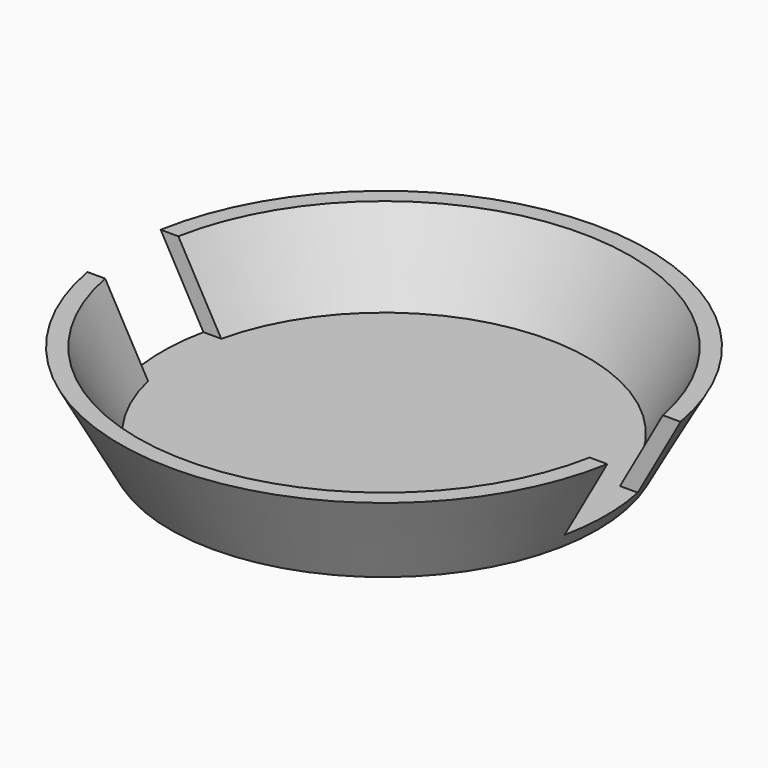
from build123d import *

# Parameters (mm, degrees)
F2_T     = -1
F4_DEPTH = 5.001


with BuildPart() as f1:
    # F0 (on Right) → F1 (revolve)
    with BuildSketch(Plane.YZ):
        Polygon((0, 6), (0, 0), (14, 0), (17.3028167337, 6), align=None)
    revolve(axis=Axis((0, 0, 3), (0, 0, -1)))

    # F2
    f2_openings = [f1.faces().sort_by_distance(p)[0] for p in [
        (0, 0, 6),
    ]]
    offset(amount=F2_T, openings=f2_openings)

    # F3 (on face) → F4 (cut, through all)
    with BuildSketch(Plane.XY.offset(1)):
        with BuildLine():
            Line((13.0690676017, -3), (25, -3))
            Line((25, -3), (25, 3))
            Line((25, 3), (13.0690676017, 3))
            ThreePointArc((13.0690676017, 3), (13.3237248636, 1.50959721), (13.408971921, 0))
            ThreePointArc((13.408971921, 0), (13.3237248636, -1.50959721), (13.0690676017, -3))
        make_face()
        with BuildLine():
            Line((-25, -3), (-13.0690676017, -3))
            ThreePointArc((-13.0690676017, -3), (-13.408971921, 0), (-13.0690676017, 3))
            Line((-13.0690676017, 3), (-25, 3))
            Line((-25, 3), (-25, -3))
        make_face()
        with BuildLine():
            Line((-13.0690676017, -3), (13.0690676017, -3))
            ThreePointArc((13.0690676017, -3), (13.3237248636, -1.50959721), (13.408971921, 0))
            ThreePointArc((13.408971921, 0), (13.3237248636, 1.50959721), (13.0690676017, 3))
            Line((13.0690676017, 3), (-13.0690676017, 3))
            ThreePointArc((-13.0690676017, 3), (-13.408971921, 0), (-13.0690676017, -3))
        make_face()
    extrude(amount=F4_DEPTH, mode=Mode.SUBTRACT)


solid = f1.part
